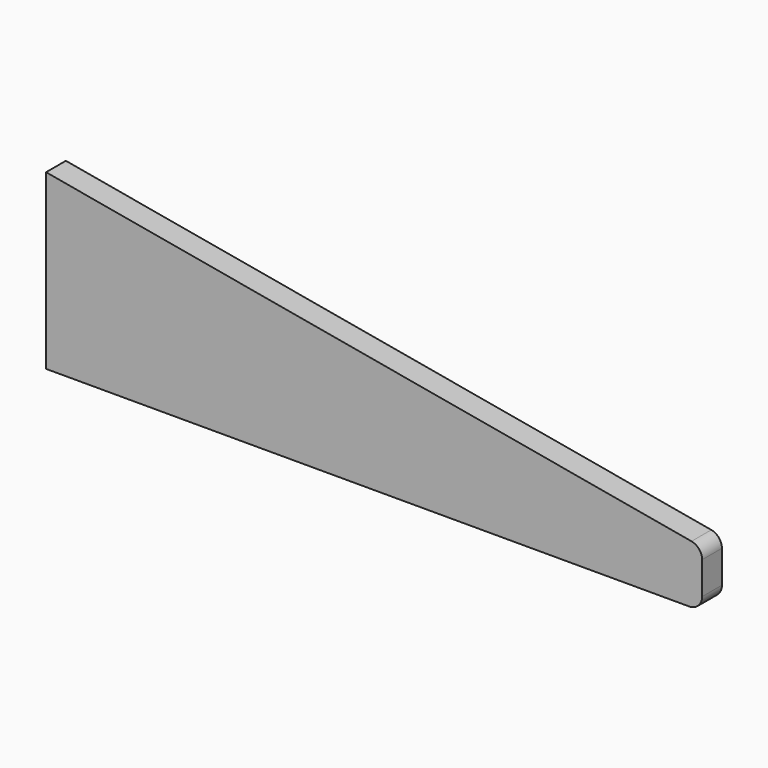
from build123d import *

# Parameters (mm, degrees)
F1_DEPTH = 12.7


with BuildPart() as f1:
    # F0 (on Front) → F1 (new body)
    with BuildSketch(Plane.XZ):
        with BuildLine():
            Line((152.457159, -15.054546), (-178.906295, 44.009007))
            Line((-178.906295, 44.009007), (-178.906295, -44.890993))
            Line((-178.906295, -44.890993), (151.293705, -44.890993))
            ThreePointArc((151.293705, -44.890993), (155.981956, -42.949056), (157.923893, -38.260805))
            Line((157.923893, -38.260805), (157.923893, -21.581855))
            ThreePointArc((157.923893, -21.581855), (156.376682, -17.324774), (152.457159, -15.054546))
        make_face()
    extrude(amount=F1_DEPTH)


solid = f1.part
